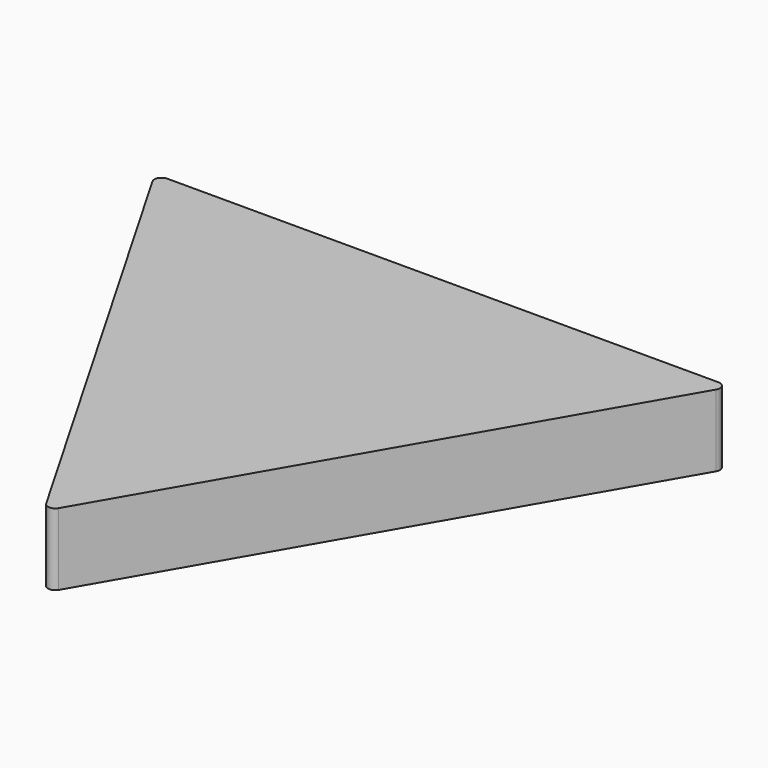
from build123d import *

# Parameters (mm, degrees)
F1_DEPTH = 2.5
F2_R     = 0.25


with BuildPart() as f1:
    # F0 (on Top) → F1 (new body)
    with BuildSketch(Plane.XY):
        Polygon((-10, 5.773503), (0, -11.547005), (10, 5.773503), align=None)
    extrude(amount=F1_DEPTH)

    # F2
    f2_edges = [f1.edges().sort_by_distance(p)[0] for p in [
        (0, -11.547005, 1.25),
        (10, 5.773503, 1.25),
        (-10, 5.773503, 1.25),
    ]]
    fillet(f2_edges, radius=F2_R)


solid = f1.part
